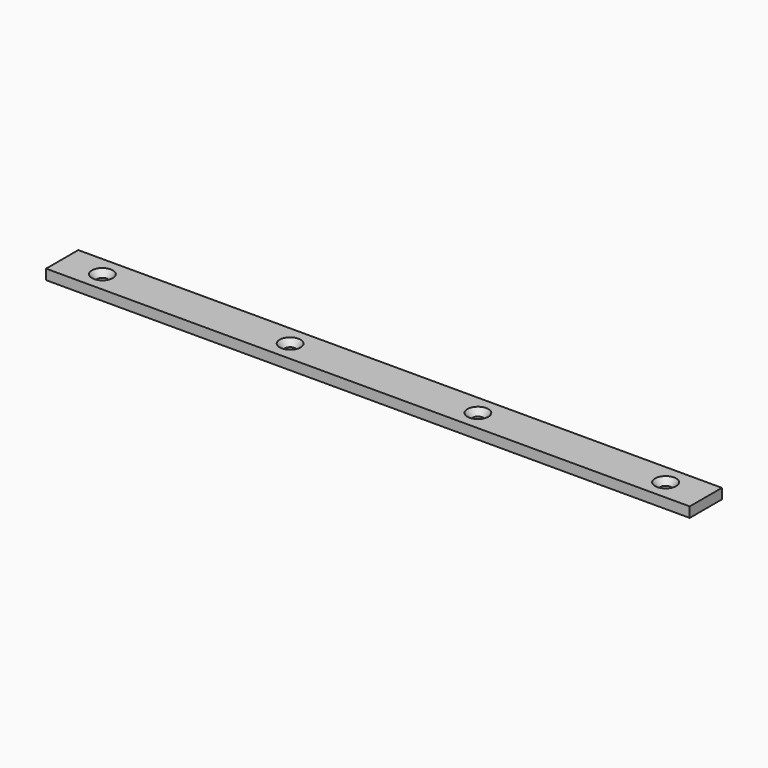
from build123d import *

# Parameters (mm, degrees)
F0_W           = 609.6
F0_H           = 38.1
F1_DEPTH       = 4.8133
F3_D           = 10.0838
F3_CSINK_D     = 19.8374
F3_CSINK_ANGLE = 82


with BuildPart() as f1:
    # F0 (on Top) → F1 (new body, symmetric)
    with BuildSketch(Plane.XY):
        Rectangle(F0_W, F0_H)
    extrude(amount=F1_DEPTH, both=True)

    # F3 (through all)
    with Locations(Plane.XY.offset(4.8133)):
        with Locations((-266.7, 0), (-88.9, 0), (88.9, 0), (266.7, 0)):
            CounterSinkHole(F3_D / 2, F3_CSINK_D / 2, counter_sink_angle=F3_CSINK_ANGLE)


solid = f1.part
